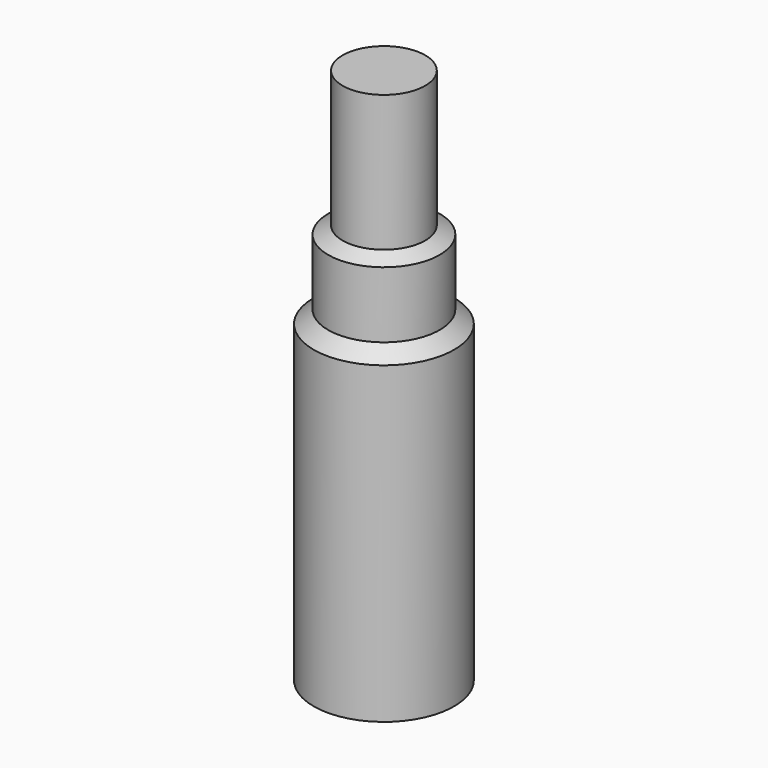
from build123d import *


with BuildPart() as part:
    # Sketch → Revolution (revolve)
    with BuildSketch(Plane.XZ):
        Polygon((0, 0), (-17, 0), (-17, 76), (-13.5, 79.08), (-13.5, 95.08), (-10, 97), (-10, 130), (0, 130), align=None)
    revolve(axis=Axis((0, 0, 0), (0, 0, 1)))


solid = part.part
